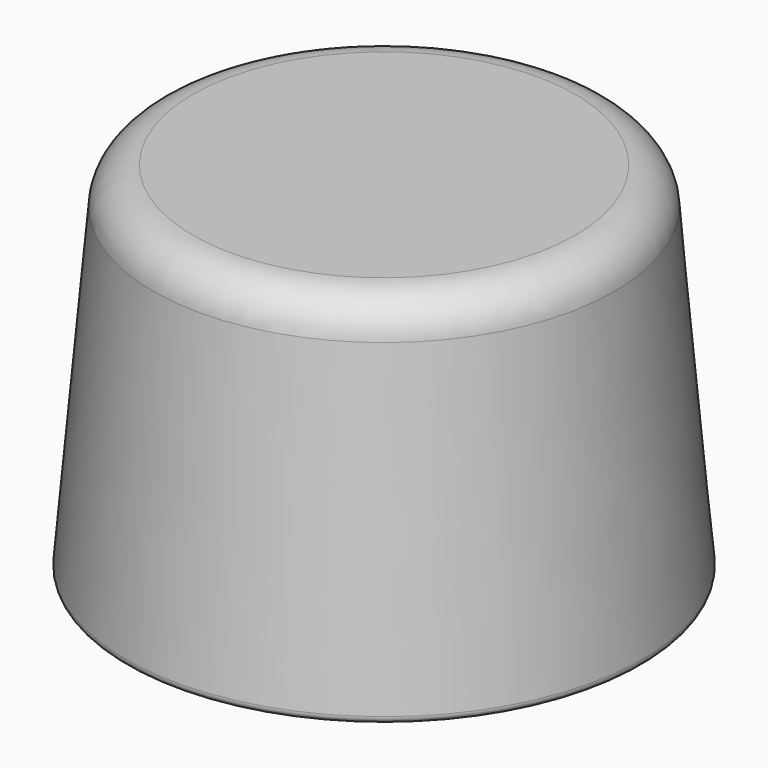
from build123d import *

# Parameters (mm, degrees)
F2_R = 3
F3_R = 0.5


with BuildPart() as f1:
    # F0 (on Front) → F1 (revolve)
    with BuildSketch(Plane.XZ):
        Polygon((-17.137806, 27), (-19.5, 0), (-16.5, 0), (-16.5, 5), (-15, 5), (-15, 24), (0, 24), (0, 27), align=None)
    revolve(axis=Axis((0, 0, 19.736372), (0, 0, 1)))

    # F2
    f2_edges = [f1.edges().sort_by_distance(p)[0] for p in [
        (17.137806, 0, 27),
    ]]
    fillet(f2_edges, radius=F2_R)

    # F3
    f3_edges = [f1.edges().sort_by_distance(p)[0] for p in [
        (19.5, 0, 0),
    ]]
    fillet(f3_edges, radius=F3_R)


solid = f1.part
